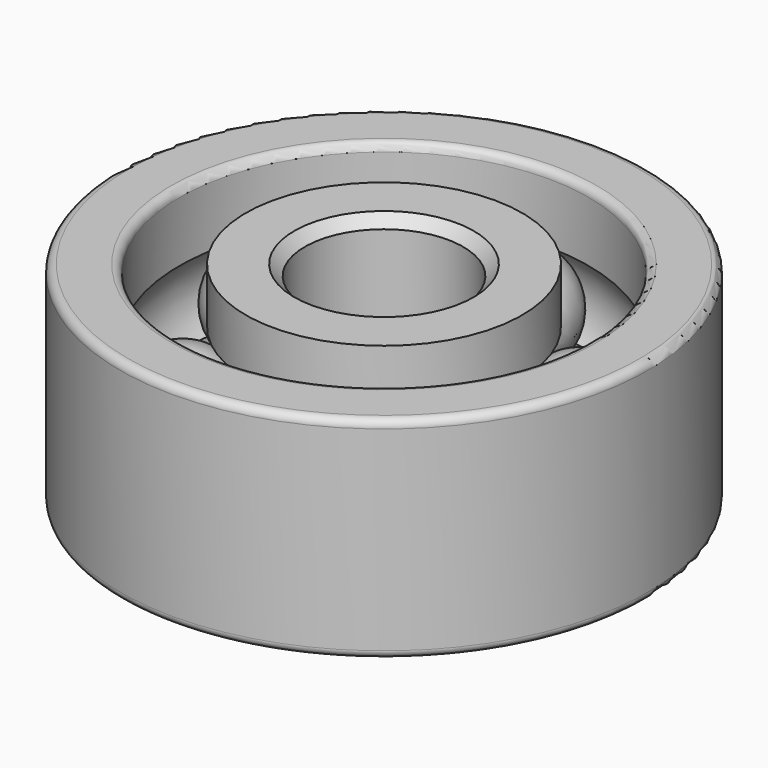
from build123d import *

# Parameters (mm, degrees)
ARRAY_COUNT  = 5
FILLET_R     = 0.15
SKETCH002_R  = 1.5
POCKET_DEPTH = 5
CHAMFER_SIZE = 0.2


with BuildPart() as array:
    # Sphere → Sphere (revolve)
    with BuildSketch(Plane.XZ.offset(-3.09)):
        with BuildLine():
            ThreePointArc((0, -1.05), (1.05, 0), (0, 1.05))
            Line((0, 1.05), (0, -1.05))
        make_face()
    revolve(axis=Axis((0, 3.09, 0), (0, 0, 1)))

    # Array: Array ×5 about axis
    array_axis = Axis((0, 0, 0), (0, 0, 1))


with BuildPart() as array_1:
    add(array.part)
    for i in range(1, ARRAY_COUNT):
        add(array.part.rotate(array_axis, i * 360 / ARRAY_COUNT))


with BuildPart() as fillet_body:
    # Sketch001 → Revolution001 (revolve)
    with BuildSketch(Plane.YZ):
        with BuildLine():
            Line((3.88, 2), (5, 2))
            Line((5, 2), (5, -2))
            Line((5, -2), (3.88, -2))
            Line((3.88, -0.706753), (3.88, -2))
            ThreePointArc((3.88, -0.706753), (4.15, 0), (3.88, 0.706753))
            Line((3.88, 2), (3.88, 0.706753))
        make_face()
    revolve(axis=Axis((0, 0, 0), (0, 0, 1)))

    # Fillet
    fillet_edges = [fillet_body.edges().sort_by_distance(p)[0] for p in [
        (0, -5, -2),
        (0, -3.88, -2),
        (0, -5, 2),
        (0, -3.88, 2),
    ]]
    fillet(fillet_edges, radius=FILLET_R)


with BuildPart() as chamfer_body:
    # Sketch → Revolution (revolve)
    with BuildSketch(Plane.YZ):
        with BuildLine():
            Line((0, 2), (2.62, 2))
            Line((2.62, 2), (2.62, 0.950105))
            ThreePointArc((2.62, 0.950105), (2.03, 0), (2.62, -0.950105))
            Line((2.62, -0.950105), (2.62, -2))
            Line((2.62, -2), (0, -2))
            Line((0, 2), (0, -2))
        make_face()
    revolve(axis=Axis((0, 0, 0), (0, 0, 1)))

    # Sketch002 → Pocket (cut)
    with BuildSketch(Plane(origin=(0, 0, 2), x_dir=(0, -1, 0), z_dir=(0, 0, 1))):
        Circle(SKETCH002_R)
    extrude(amount=-POCKET_DEPTH, mode=Mode.SUBTRACT)

    # Chamfer
    chamfer_edges = [chamfer_body.edges().sort_by_distance(p)[0] for p in [
        (0, 1.5, 2),
        (0, 1.5, -2),
    ]]
    chamfer(chamfer_edges, length=CHAMFER_SIZE)


solid = Compound([array_1.part, fillet_body.part, chamfer_body.part])
